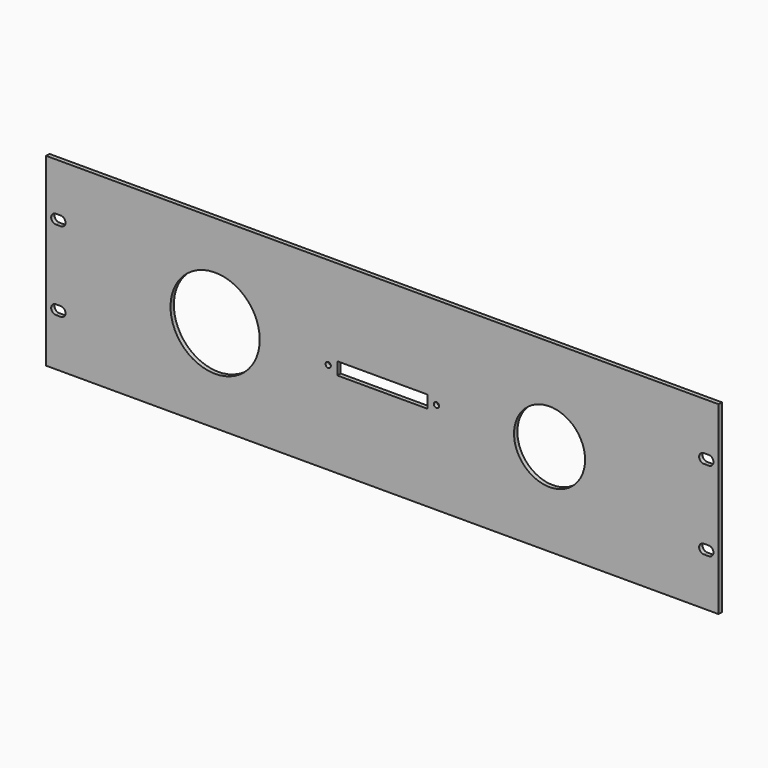
from build123d import *

# Parameters (mm, degrees)
F0_W     = 482.6
F0_H     = 132.6
F1_DEPTH = 3
F2_W     = 3.5
F2_H     = 6.8
F3_W     = 3.5
F3_H     = 6.8
F4_W     = 3.5
F4_H     = 6.8
F5_W     = 3.5
F5_H     = 6.8
F6_DEPTH = 3
F7_R     = 32
F7_R_2   = 25.5
F7_W     = 64.5
F7_H     = 9
F7_R_3   = 1.9
F8_DEPTH = 3


with BuildPart() as f1:
    # F0 (on Front) → F1 (new body)
    with BuildSketch(Plane.XZ):
        Rectangle(F0_W, F0_H)
    extrude(amount=-F1_DEPTH)

    # F2 (on face) + F3 (on face) + F4 (on face) + F5 (on face) → F6 (cut)
    with BuildSketch(Plane.XZ):
        with Locations((-232.5, 28.6)):
            Rectangle(F2_W, F2_H)
        with BuildLine():
            Line((-230.75, 32), (-230.75, 25.2))
            ThreePointArc((-230.75, 25.2), (-227.35, 28.6), (-230.75, 32))
        make_face()
        with BuildLine():
            ThreePointArc((-234.25, 32), (-237.65, 28.6), (-234.25, 25.2))
            Line((-234.25, 25.2), (-234.25, 32))
        make_face()
    with BuildSketch(Plane.XZ):
        with Locations((-232.5, -28.6)):
            Rectangle(F3_W, F3_H)
        with BuildLine():
            Line((-230.75, -25.2), (-230.75, -32))
            ThreePointArc((-230.75, -32), (-227.35, -28.6), (-230.75, -25.2))
        make_face()
        with BuildLine():
            ThreePointArc((-234.25, -25.2), (-237.65, -28.6), (-234.25, -32))
            Line((-234.25, -32), (-234.25, -25.2))
        make_face()
    with BuildSketch(Plane.XZ):
        with Locations((232.5, 28.6)):
            Rectangle(F4_W, F4_H)
        with BuildLine():
            ThreePointArc((234.25, 25.2), (237.65, 28.6), (234.25, 32))
            Line((234.25, 32), (234.25, 25.2))
        make_face()
        with BuildLine():
            Line((230.75, 25.2), (230.75, 32))
            ThreePointArc((230.75, 32), (227.35, 28.6), (230.75, 25.2))
        make_face()
    with BuildSketch(Plane.XZ):
        with Locations((232.5, -28.6)):
            Rectangle(F5_W, F5_H)
        with BuildLine():
            Line((234.25, -25.2), (234.25, -32))
            ThreePointArc((234.25, -32), (237.65, -28.6), (234.25, -25.2))
        make_face()
        with BuildLine():
            ThreePointArc((230.75, -25.2), (227.35, -28.6), (230.75, -32))
            Line((230.75, -32), (230.75, -25.2))
        make_face()
    extrude(amount=-F6_DEPTH, mode=Mode.SUBTRACT)

    # F7 (on face) → F8 (cut)
    with BuildSketch(Plane.XZ):
        with Locations((-120, 0)):
            Circle(F7_R)
        with Locations((120, 0)):
            Circle(F7_R_2)
        Rectangle(F7_W, F7_H)
        with Locations((38.85, 0)):
            Circle(F7_R_3)
        with Locations((-38.85, 0)):
            Circle(F7_R_3)
    extrude(amount=-F8_DEPTH, mode=Mode.SUBTRACT)


solid = f1.part
